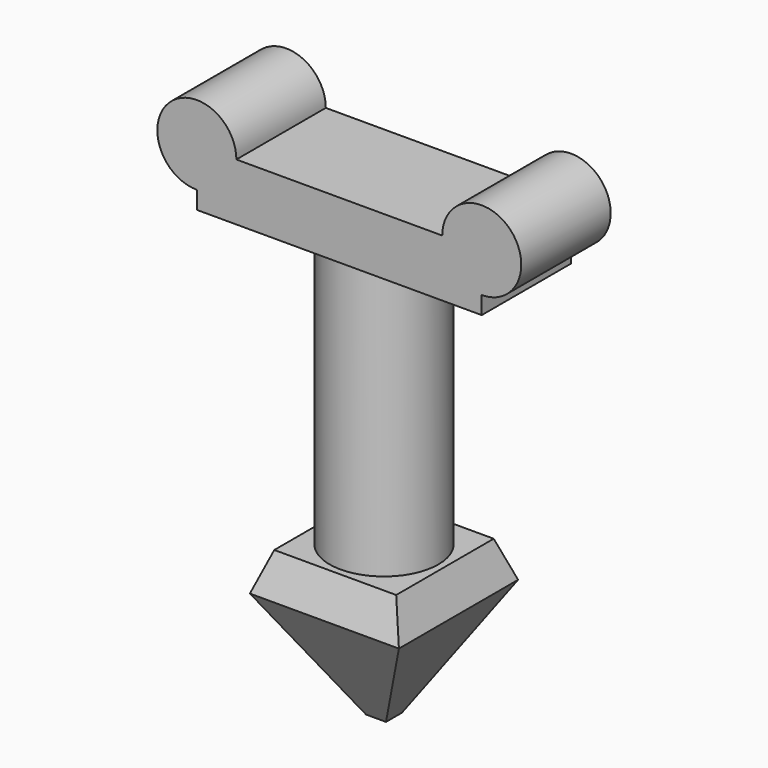
from build123d import *

# Parameters (mm, degrees)
F0_W      = 50.8
F0_H      = 50.8
F1_DEPTH  = 38.1
F1_TAPER  = 30
F1_FACE_W = 50.8
F1_FACE_H = 50.8
F2_DEPTH  = 12.7
F2_TAPER  = 20
F3_R      = 18.5436929907
F4_DEPTH  = 101.6
F6_DEPTH  = 19.05


with BuildPart() as f1:
    # F0 (on Top) → F1 (new body)
    with BuildSketch(Plane.XY):
        Rectangle(F0_W, F0_H)
    extrude(amount=-F1_DEPTH, taper=F1_TAPER)

    # F1_face (on face) → F2 (join)
    with BuildSketch(Plane.XY):
        Rectangle(F1_FACE_W, F1_FACE_H)
    extrude(amount=F2_DEPTH, taper=F2_TAPER)

    # F3 (on face) → F4 (join)
    with BuildSketch(Plane.XY.offset(12.7)):
        Circle(F3_R)
    extrude(amount=F4_DEPTH)

    # F5 (on Front) → F6 (join, symmetric)
    with BuildSketch(Plane.XZ):
        with BuildLine():
            ThreePointArc((48.5590323806, 111.0507363485), (58.0872045338, 134.0537787855), (35.0841620969, 124.5256066322))
            Line((35.0841620969, 124.5256066322), (-35.0841620969, 124.5256066322))
            ThreePointArc((-35.0841620969, 124.5256066322), (-58.0872045338, 134.0537787855), (-48.5590323806, 111.0507363485))
            Line((-48.5590323806, 111.0507363485), (-48.5590323806, 105.0193756819))
            Line((-48.5590323806, 105.0193756819), (48.5590323806, 105.0193756819))
            Line((48.5590323806, 105.0193756819), (48.5590323806, 111.0507363485))
        make_face()
    extrude(amount=F6_DEPTH, both=True)


solid = f1.part
